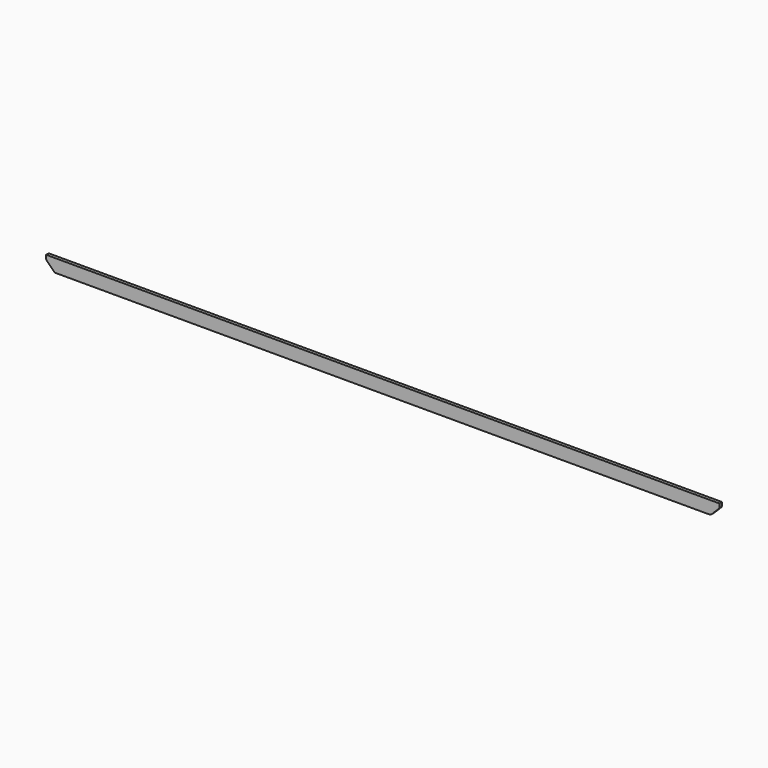
from build123d import *

# Parameters (mm, degrees)
F0_W     = 38.1
F0_H     = 152.4
F1_DEPTH = 7924.8
F2_SIZE  = 101.6
F3_R     = 25.4


with BuildPart() as f1:
    # F0 (on Right) → F1 (new body)
    with BuildSketch(Plane.YZ):
        with Locations((-24.1951760836, 32.6246434903)):
            Rectangle(F0_W, F0_H)
    extrude(amount=-F1_DEPTH)

    # F2
    f2_edges = [f1.edges().sort_by_distance(p)[0] for p in [
        (0, -24.195176, -43.575357),
        (-7924.8, -24.195176, -43.575357),
    ]]
    chamfer(f2_edges, length=F2_SIZE)

    # F3
    f3_edges = [f1.edges().sort_by_distance(p)[0] for p in [
        (0, -24.195176, 58.024643),
        (-101.6, -24.195176, -43.575357),
        (-7924.8, -24.195176, 58.024643),
        (-7823.2, -24.195176, -43.575357),
    ]]
    fillet(f3_edges, radius=F3_R)


solid = f1.part
